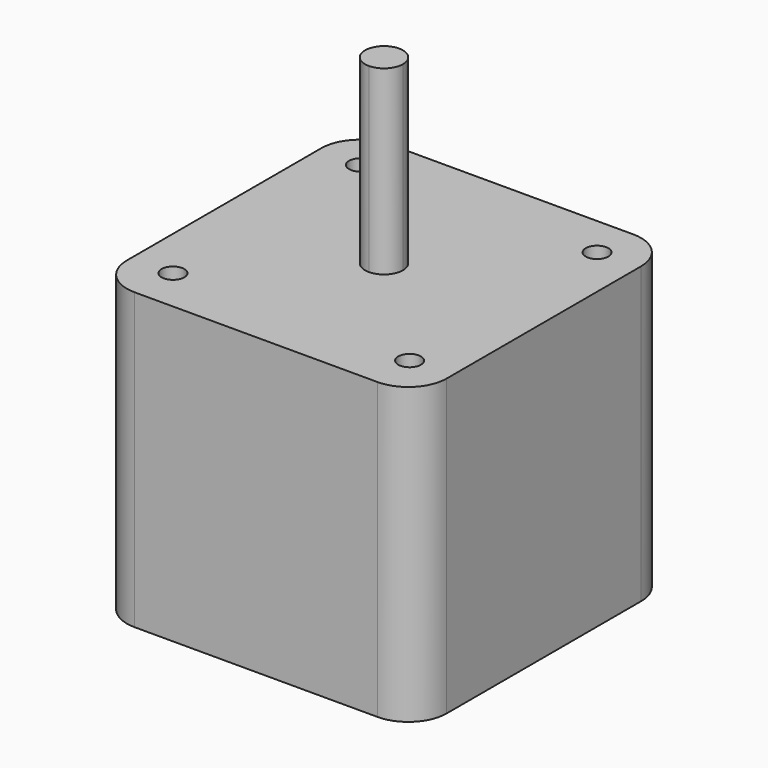
from build123d import *

# Parameters (mm, degrees)
F0_W     = 42.3
F0_H     = 42.3
F1_DEPTH = 39
F2_R     = 5.08
F4_D     = 3
F6_DEPTH = 24


with BuildPart() as f1:
    # F0 (on Top) → F1 (new body)
    with BuildSketch(Plane.XY):
        with Locations((-0.275903, -1.519124)):
            Rectangle(F0_W, F0_H)
    extrude(amount=F1_DEPTH)

    # F2
    f2_edges = [f1.edges().sort_by_distance(p)[0] for p in [
        (20.874097, 19.630876, 19.5),
        (20.874097, -22.669124, 19.5),
        (-21.425903, 19.630876, 19.5),
        (-21.425903, -22.669124, 19.5),
    ]]
    fillet(f2_edges, radius=F2_R)

    # F4 (through all)
    with Locations(Plane.XY.offset(39)):
        with Locations((15.374097, 14.146936), (15.374097, -16.853064), (-15.925903, -16.853064), (-15.925903, 14.146936)):
            Hole(F4_D / 2)

    # F5 (on face) → F6 (join)
    with BuildSketch(Plane.XY.offset(39)):
        with BuildLine():
            ThreePointArc((-0.275903, -4.019124), (1.491864, -3.286891), (2.224097, -1.519124))
            Line((2.224097, -1.519124), (-0.275903, -1.519124))
            Line((-0.275903, -1.519124), (-0.275903, -4.019124))
        make_face()
        with BuildLine():
            Line((-0.275903, -1.519124), (2.224097, -1.519124))
            ThreePointArc((2.224097, -1.519124), (1.491864, 0.248643), (-0.275903, 0.980876))
            Line((-0.275903, 0.980876), (-0.275903, -1.519124))
        make_face()
        with BuildLine():
            Line((-0.275903, -4.019124), (-0.275903, -1.519124))
            Line((-0.275903, -1.519124), (-2.775903, -1.519124))
            ThreePointArc((-2.775903, -1.519124), (-2.04367, -3.286891), (-0.275903, -4.019124))
        make_face()
        with BuildLine():
            Line((-2.775903, -1.519124), (-0.275903, -1.519124))
            Line((-0.275903, -1.519124), (-0.275903, 0.980876))
            ThreePointArc((-0.275903, 0.980876), (-2.04367, 0.248643), (-2.775903, -1.519124))
        make_face()
    extrude(amount=F6_DEPTH)


solid = f1.part
